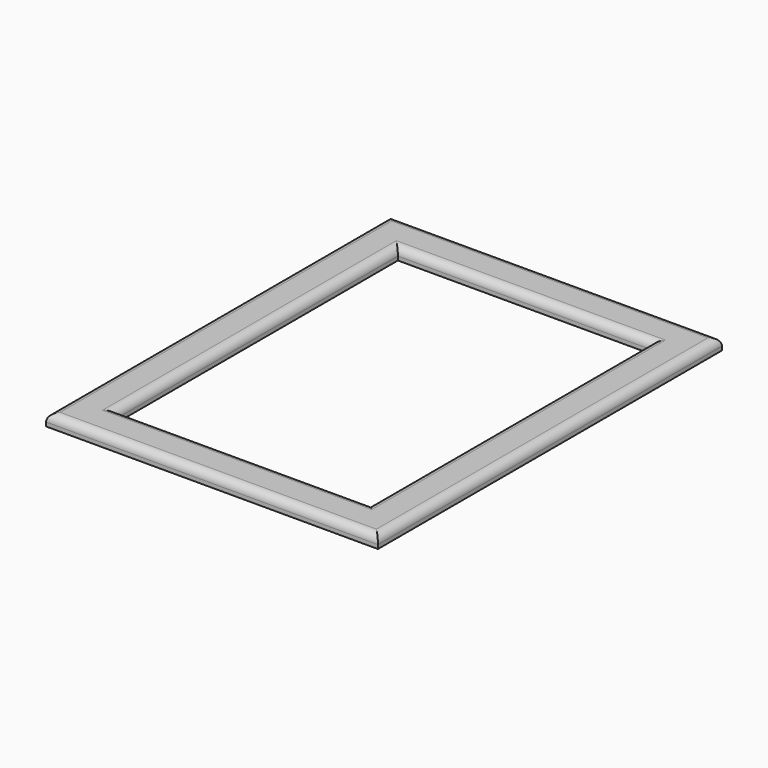
from build123d import *

# Parameters (mm, degrees)
F0_W     = 84.6
F0_H     = 109.6
F0_W_2   = 64.6
F0_H_2   = 89.6
F1_DEPTH = 3
F2_R     = 2


with BuildPart() as f1:
    # F0 (on Top) → F1 (new body)
    with BuildSketch(Plane.XY):
        with Locations((-32, 44.5)):
            Rectangle(F0_W, F0_H)
        with Locations((-32, 44.5)):
            Rectangle(F0_W_2, F0_H_2, mode=Mode.SUBTRACT)
    extrude(amount=F1_DEPTH)

    # F2
    f2_edges = [f1.edges().sort_by_distance(p)[0] for p in [
        (-74.3, 44.5, 3),
        (-32, -10.3, 3),
        (10.3, 44.5, 3),
        (-32, 99.3, 3),
        (-32, -0.3, 3),
        (-64.3, 44.5, 3),
        (-32, 89.3, 3),
        (0.3, 44.5, 3),
    ]]
    fillet(f2_edges, radius=F2_R)


solid = f1.part
